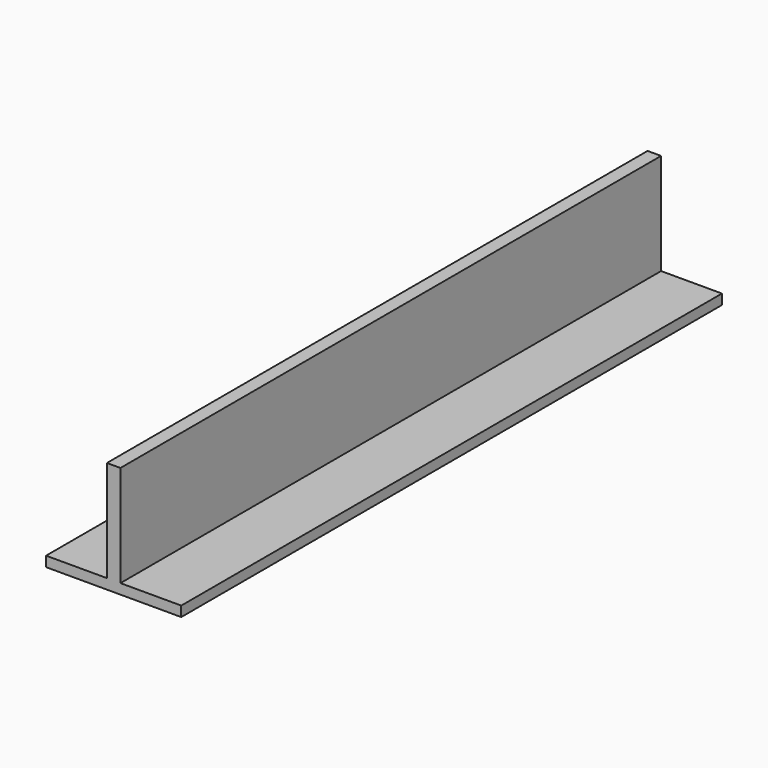
from build123d import *

# Parameters (mm, degrees)
F0_W     = 4
F0_H     = 30
F1_DEPTH = 200


with BuildPart() as f1:
    # F0 (on Front) → F1 (new body)
    with BuildSketch(Plane.XZ):
        with Locations((0, 18)):
            Rectangle(F0_W, F0_H)
        Polygon((-2, 3), (-20, 3), (-20, 0), (20, 0), (20, 3), (2, 3), align=None)
    extrude(amount=F1_DEPTH)


solid = f1.part
